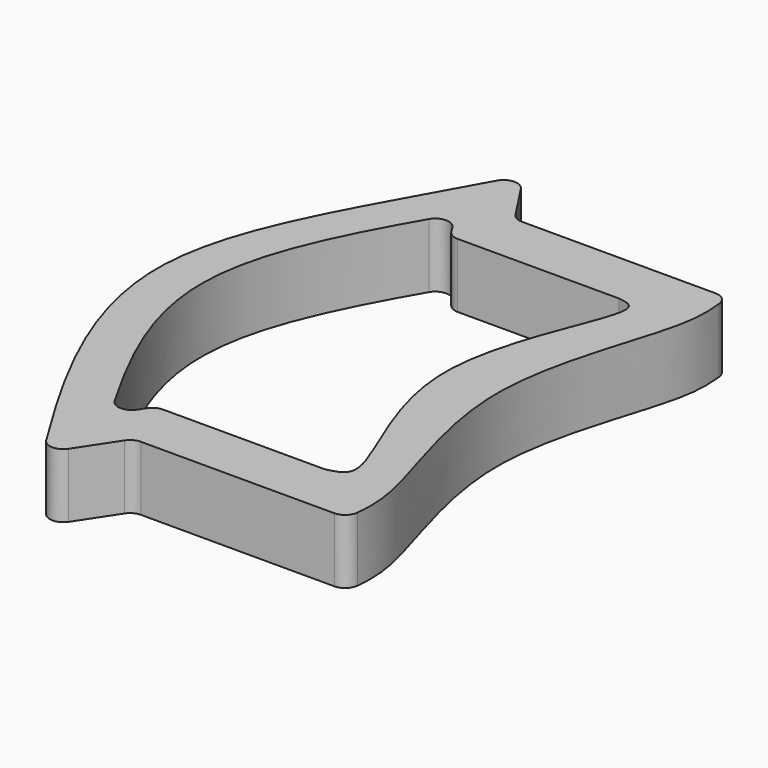
from build123d import *

# Parameters (mm, degrees)
F1_DEPTH = 19.05
F3_DEPTH = 19.05
F4_R     = 4


with BuildPart() as f1:
    # F0 (on Top) → F1 (new body)
    with BuildSketch(Plane.XY):
        with BuildLine():
            add(Edge.make_bspline(
                [(0, -88.9), (-18.7615667395, -58.872751179), (-55.497587887, 2.319356984), (-18.3044684192, 54.234037211), (0, 88.9)],
                knots=[0, 0, 0, 0, 0.5, 1, 1, 1, 1], degree=3))
            Line((0, -88.9), (12.096735135, -70.5242279326))
            Line((12.096735135, -70.5242279326), (75.096735135, -70.5242279326))
            add(Edge.make_bspline(
                [(75.096735135, 70.5242279326), (75.6453777141, 65.842621729), (77.7669512859, 52.4624280909), (54.0778767649, 0.0958361046), (77.7020868907, -53.1321501243), (75.6250650534, -66.0721629988), (75.096735135, -70.5242279326)],
                knots=[0, 0, 0, 0, 0.1764310118, 0.500837432, 0.8270944973, 1, 1, 1, 1], degree=3))
            Line((75.096735135, 70.5242279326), (12.096735135, 70.5242279326))
            Line((12.096735135, 70.5242279326), (0, 88.9))
        make_face()
    extrude(amount=F1_DEPTH)

    # F2 (on face) → F3 (cut)
    with BuildSketch(Plane.XY.offset(19.05)):
        with BuildLine():
            add(Edge.make_bspline(
                [(0, -63.9), (-15.0066513258, -38.561437128), (-33.4891316908, -0.0640391576), (-15.0195212491, 38.6895154432), (0, 63.9)],
                knots=[0, 0, 0, 0, 0.5, 1, 1, 1, 1], degree=3))
            Line((0, -63.9), (6.0483675675, -54.7121139663))
            Line((6.0483675675, -54.7121139663), (56.0483675675, -54.7121139663))
            add(Edge.make_bspline(
                [(55.7842407716, 54.5435819516), (57.8413429651, 54.264139175), (66.4918207205, 53.0890329839), (32.3838227626, -0.5635362626), (68.3251031662, -51.8911242436), (58.5903282755, -54.1280136592), (56.0483675675, -54.7121139663)],
                knots=[0, 0, 0, 0, 0.1173857138, 0.4936276425, 0.8677752027, 1, 1, 1, 1], degree=3))
            Line((55.7842407716, 54.5435819516), (5.7842407716, 54.5435819516))
            Line((5.7842407716, 54.5435819516), (0, 63.9))
        make_face()
    extrude(amount=-F3_DEPTH, mode=Mode.SUBTRACT)

    # F4
    f4_edges = [f1.edges().sort_by_distance(p)[0] for p in [
        (0, -88.9, 9.525),
        (75.096735, -70.524228, 9.525),
        (5.784241, 54.543582, 9.525),
        (75.096735, 70.524228, 9.525),
        (0, 88.9, 9.525),
        (12.096735, 70.524228, 9.525),
        (12.096735, -70.524228, 9.525),
        (0, 63.9, 9.525),
        (0, -63.9, 9.525),
        (6.048368, -54.712114, 9.525),
    ]]
    fillet(f4_edges, radius=F4_R)


solid = f1.part
